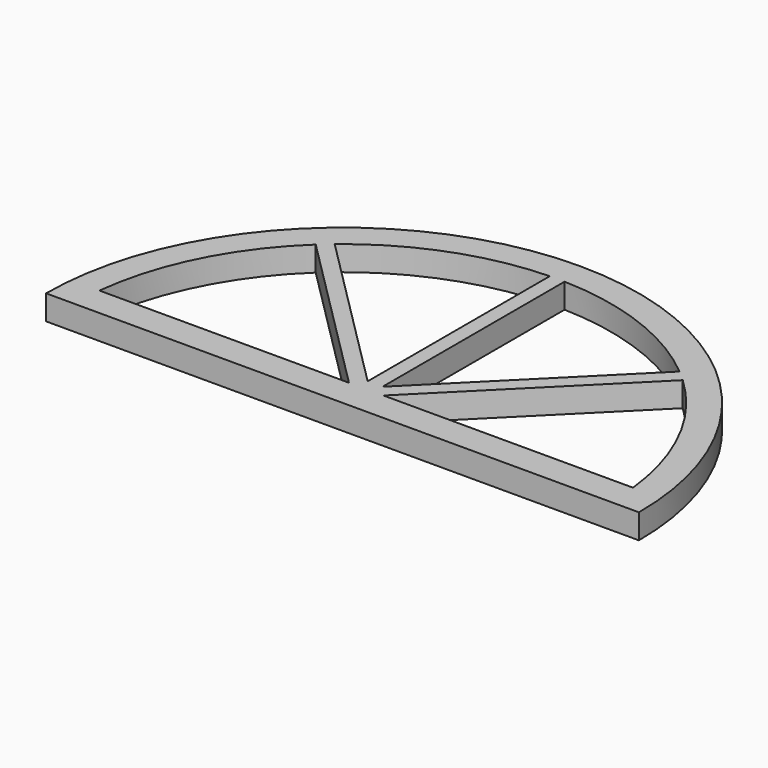
from build123d import *

# Parameters (mm, degrees)
F1_DEPTH = 25


with BuildPart() as f1:
    # F0 (on Top) → F1 (new body)
    with BuildSketch(Plane.XY):
        with BuildLine():
            Line((-300, 0), (300, 0))
            ThreePointArc((300, 0), (0, 300), (-300, 0))
        make_face()
        with BuildLine():
            Line((-185.715315, 198.267047), (-17.448268, 30))
            Line((-17.448268, 30), (-270, 30))
            ThreePointArc((-270, 30), (-242.894137, 121.665271), (-185.715315, 198.267047))
        make_face(mode=Mode.SUBTRACT)
        with BuildLine():
            ThreePointArc((185.735213, 198.248406), (242.900242, 121.653082), (270, 30))
            Line((270, 30), (17.486807, 30))
            Line((17.486807, 30), (185.735213, 198.248406))
        make_face(mode=Mode.SUBTRACT)
        with BuildLine():
            ThreePointArc((-174.488919, 208.215315), (-96.348667, 254.001839), (-7.5, 271.558005))
            Line((-7.5, 271.558005), (-7.5, 41.226396))
            Line((-7.5, 41.226396), (-174.488919, 208.215315))
        make_face(mode=Mode.SUBTRACT)
        with BuildLine():
            Line((7.5, 41.226396), (7.5, 271.558005))
            ThreePointArc((7.5, 271.558005), (96.361414, 253.997004), (174.509816, 208.197801))
            Line((174.509816, 208.197801), (7.5, 41.226396))
        make_face(mode=Mode.SUBTRACT)
    extrude(amount=F1_DEPTH)


solid = f1.part
